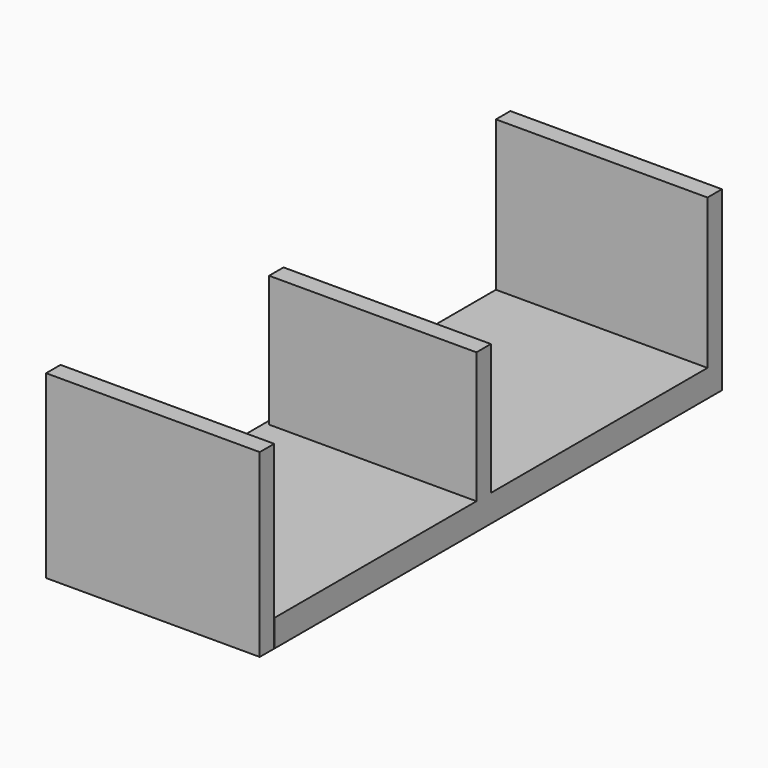
from build123d import *

# Parameters (mm, degrees)
F0_W     = 59.5921203494
F0_H     = 152.5296419859
F1_DEPTH = 7.62
F3_W     = 60.1832810789
F3_H     = 50.7983006537
F4_DEPTH = 5.08
F5_W     = 58.4103576839
F5_H     = 36.9284590706
F6_DEPTH = 5.08
F7_W     = 59.5921203494
F7_H     = 49.8682297766
F8_DEPTH = 5.08


with BuildPart() as f1:
    # F0 (on Top) → F1 (new body)
    with BuildSketch(Plane.XY):
        Rectangle(F0_W, F0_H)
    extrude(amount=F1_DEPTH)

    # F3 (on offset) → F4 (join)
    with BuildSketch(Plane.XZ.offset(76.2648209929)):
        with Locations((-0.3228811547, 25.3991503268)):
            Rectangle(F3_W, F3_H)
    extrude(amount=F4_DEPTH)

    # F5 (on Front) → F6 (join)
    with BuildSketch(Plane.XZ):
        with Locations((0.5908813328, 26.0842295353)):
            Rectangle(F5_W, F5_H)
    extrude(amount=F6_DEPTH)

    # F7 (on face) → F8 (join)
    with BuildSketch(Plane(origin=(0, 76.2648209929, 0), x_dir=(-1, 0, 0), z_dir=(0, 1, 0))):
        with Locations((0, 24.9341148883)):
            Rectangle(F7_W, F7_H)
    extrude(amount=F8_DEPTH)


solid = f1.part
